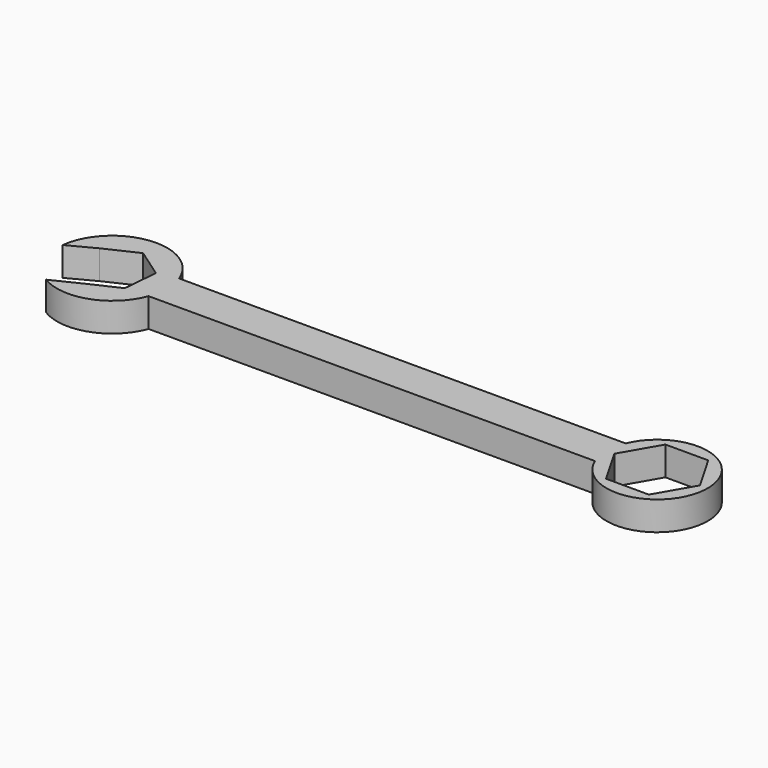
from build123d import *

# Parameters (mm, degrees)
F1_DEPTH = 7.112


with BuildPart() as f1:
    # F0 (on Top) → F1 (new body)
    with BuildSketch(Plane.XY):
        with BuildLine():
            Line((-55.80807, -4.691954), (54.014004, -4.691954))
            ThreePointArc((54.014004, -4.691954), (77.989111, -0.015025), (54.025366, 4.719774))
            Line((54.025366, 4.719774), (-55.818372, 4.719774))
            ThreePointArc((-55.818372, 4.719774), (-70.124067, 13.45667), (-81.978054, 1.604697))
            Line((-81.978054, 1.604697), (-75.612001, 4.942868))
            Line((-75.612001, 4.942868), (-67.786179, 8.611853))
            Line((-67.786179, 8.611853), (-60.695834, 3.668985))
            Line((-60.695834, 3.668985), (-61.431311, -4.942868))
            Line((-61.431311, -4.942868), (-69.257133, -8.611853))
            Line((-69.257133, -8.611853), (-75.452484, -11.645313))
            ThreePointArc((-75.452484, -11.645313), (-63.999779, -12.775067), (-55.80807, -4.691954))
        make_face()
        Polygon((55.007732, 0), (60.275092, 9.123336), (70.809812, 9.123336), (76.077173, 0), (70.809812, -9.123336), (60.275092, -9.123336), align=None, mode=Mode.SUBTRACT)
    extrude(amount=F1_DEPTH)


solid = f1.part
